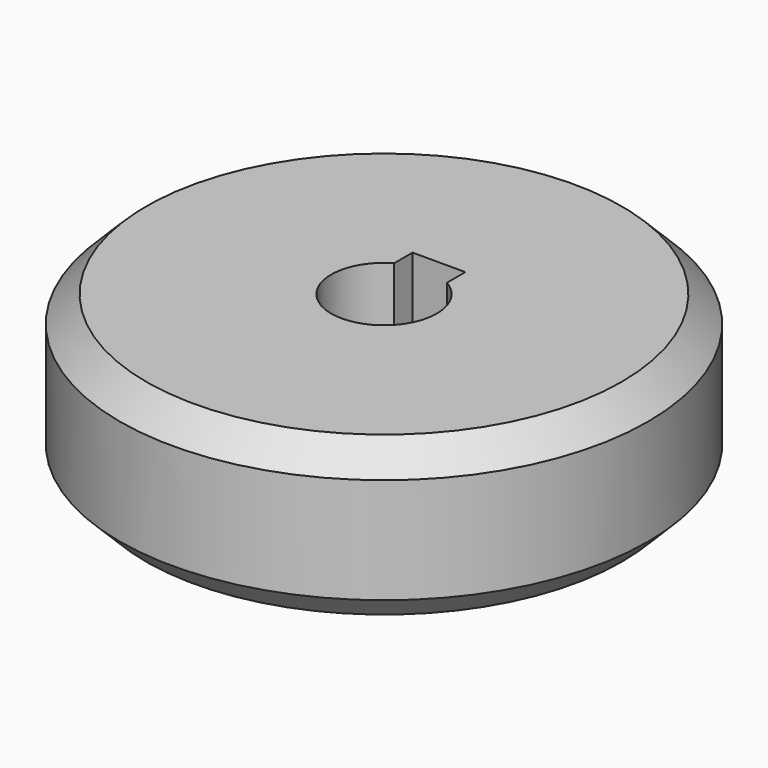
from build123d import *

# Parameters (mm, degrees)
F0_R     = 50
F1_DEPTH = 30
F2_SIZE  = 5


with BuildPart() as f1:
    # F0 (on Top) → F1 (new body)
    with BuildSketch(Plane.XY):
        Circle(F0_R)
        with BuildLine():
            ThreePointArc((5, 8.660254), (0, -10), (-5, 8.660254))
            Line((-5, 8.660254), (-5, 13))
            Line((-5, 13), (0, 13))
            Line((0, 13), (5, 13))
            Line((5, 13), (5, 8.660254))
        make_face(mode=Mode.SUBTRACT)
    extrude(amount=F1_DEPTH)

    # F2
    f2_edges = [f1.edges().sort_by_distance(p)[0] for p in [
        (-50, 0, 30),
        (-50, 0, 0),
    ]]
    chamfer(f2_edges, length=F2_SIZE)


solid = f1.part
